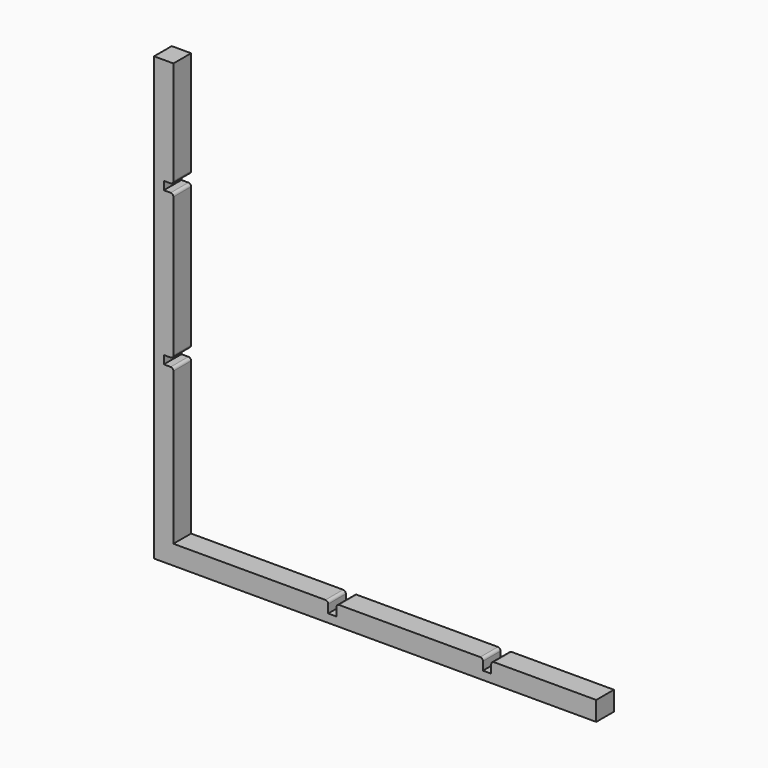
from build123d import *

# Parameters (mm, degrees)
F1_DEPTH = 25.4
F2_DEPTH = 25.4


with BuildPart() as f1:
    # F0 (on Front) → F1 (new body)
    with BuildSketch(Plane.XZ):
        with BuildLine():
            Line((-295.619281, 287.418209), (-317.844281, 287.418209))
            Line((-317.844281, 287.418209), (-317.844281, -220.581791))
            Line((-317.844281, -220.581791), (190.155719, -220.581791))
            Line((190.155719, -220.581791), (190.155719, -198.356791))
            Line((190.155719, -198.356791), (72.680719, -198.356791))
            ThreePointArc((72.680719, -198.356791), (70.435655, -199.286727), (69.505719, -201.531791))
            Line((69.505719, -201.531791), (69.505719, -211.056791))
            Line((69.505719, -211.056791), (59.980719, -211.056791))
            Line((59.980719, -211.056791), (59.980719, -201.531791))
            ThreePointArc((59.980719, -201.531791), (59.050783, -199.286727), (56.805719, -198.356791))
            Line((56.805719, -198.356791), (-105.119281, -198.356791))
            ThreePointArc((-105.119281, -198.356791), (-107.364345, -199.286727), (-108.294281, -201.531791))
            Line((-108.294281, -201.531791), (-108.294281, -211.056791))
            Line((-108.294281, -211.056791), (-117.819281, -211.056791))
            Line((-117.819281, -211.056791), (-117.819281, -201.531791))
            ThreePointArc((-117.819281, -201.531791), (-118.749217, -199.286727), (-120.994281, -198.356791))
            Line((-120.994281, -198.356791), (-295.619281, -198.356791))
            Line((-295.619281, -198.356791), (-295.619281, -23.731791))
            ThreePointArc((-295.619281, -23.731791), (-296.549217, -21.486727), (-298.794281, -20.556791))
            Line((-298.794281, -20.556791), (-306.668281, -20.556791))
            Line((-306.668281, -20.556791), (-306.668281, -11.031791))
            Line((-306.668281, -11.031791), (-298.794281, -11.031791))
            ThreePointArc((-298.794281, -11.031791), (-296.549217, -10.101855), (-295.619281, -7.856791))
            Line((-295.619281, -7.856791), (-295.619281, 152.417209))
            ThreePointArc((-295.619281, 152.417209), (-296.549217, 154.662273), (-298.794281, 155.592209))
            Line((-298.794281, 155.592209), (-306.668281, 155.592209))
            Line((-306.668281, 155.592209), (-306.668281, 165.117209))
            Line((-306.668281, 165.117209), (-298.794281, 165.117209))
            ThreePointArc((-298.794281, 165.117209), (-296.549217, 166.047145), (-295.619281, 168.292209))
            Line((-295.619281, 168.292209), (-295.619281, 287.418209))
        make_face()
    extrude(amount=F1_DEPTH)

    # F0 (on Front) → F2 (join)
    with BuildSketch(Plane.XZ):
        with BuildLine():
            Line((-295.619281, 287.418209), (-317.844281, 287.418209))
            Line((-317.844281, 287.418209), (-317.844281, -220.581791))
            Line((-317.844281, -220.581791), (190.155719, -220.581791))
            Line((190.155719, -220.581791), (190.155719, -198.356791))
            Line((190.155719, -198.356791), (72.680719, -198.356791))
            ThreePointArc((72.680719, -198.356791), (70.435655, -199.286727), (69.505719, -201.531791))
            Line((69.505719, -201.531791), (69.505719, -211.056791))
            Line((69.505719, -211.056791), (59.980719, -211.056791))
            Line((59.980719, -211.056791), (59.980719, -201.531791))
            ThreePointArc((59.980719, -201.531791), (59.050783, -199.286727), (56.805719, -198.356791))
            Line((56.805719, -198.356791), (-105.119281, -198.356791))
            ThreePointArc((-105.119281, -198.356791), (-107.364345, -199.286727), (-108.294281, -201.531791))
            Line((-108.294281, -201.531791), (-108.294281, -211.056791))
            Line((-108.294281, -211.056791), (-117.819281, -211.056791))
            Line((-117.819281, -211.056791), (-117.819281, -201.531791))
            ThreePointArc((-117.819281, -201.531791), (-118.749217, -199.286727), (-120.994281, -198.356791))
            Line((-120.994281, -198.356791), (-295.619281, -198.356791))
            Line((-295.619281, -198.356791), (-295.619281, -23.731791))
            ThreePointArc((-295.619281, -23.731791), (-296.549217, -21.486727), (-298.794281, -20.556791))
            Line((-298.794281, -20.556791), (-306.668281, -20.556791))
            Line((-306.668281, -20.556791), (-306.668281, -11.031791))
            Line((-306.668281, -11.031791), (-298.794281, -11.031791))
            ThreePointArc((-298.794281, -11.031791), (-296.549217, -10.101855), (-295.619281, -7.856791))
            Line((-295.619281, -7.856791), (-295.619281, 152.417209))
            ThreePointArc((-295.619281, 152.417209), (-296.549217, 154.662273), (-298.794281, 155.592209))
            Line((-298.794281, 155.592209), (-306.668281, 155.592209))
            Line((-306.668281, 155.592209), (-306.668281, 165.117209))
            Line((-306.668281, 165.117209), (-298.794281, 165.117209))
            ThreePointArc((-298.794281, 165.117209), (-296.549217, 166.047145), (-295.619281, 168.292209))
            Line((-295.619281, 168.292209), (-295.619281, 287.418209))
        make_face()
    extrude(amount=F2_DEPTH)


solid = f1.part
